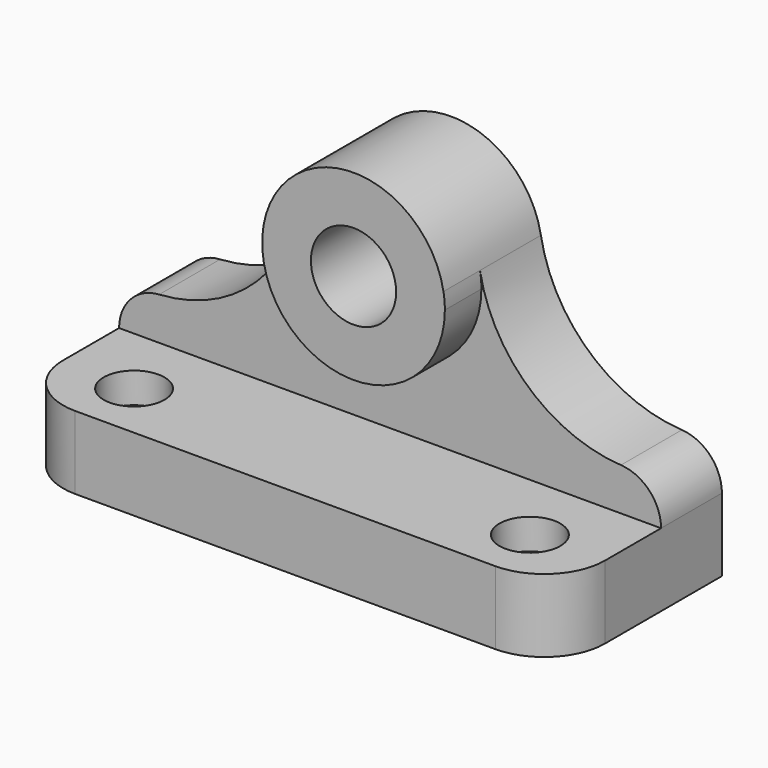
from build123d import *

# Parameters (mm, degrees)
F0_R           = 14
F0_W           = 178
F0_H           = 24
F1_DEPTH       = 25
F2_DEPTH       = 40
F3_DEPTH       = 68
F4_R           = 20
F6_D           = 10
F6_CBORE_D     = 20
F6_CBORE_DEPTH = 10


with BuildPart() as f1:
    # F0 (on Front) → F1 (new body)
    with BuildSketch(Plane.XZ):
        with BuildLine():
            ThreePointArc((-29.54449, 5.207985), (-2.613934, -29.885906), (30, 0))
            ThreePointArc((30, 0), (29.885906, 2.613934), (29.54449, 5.207985))
            ThreePointArc((29.54449, 5.207985), (0, 30), (-29.54449, 5.207985))
        make_face()
        Circle(F0_R, mode=Mode.SUBTRACT)
        with BuildLine():
            ThreePointArc((29.54449, 5.207985), (29.885906, 2.613934), (30, 0))
            ThreePointArc((30, 0), (-2.613934, -29.885906), (-29.54449, 5.207985))
            ThreePointArc((-29.54449, 5.207985), (-45.525876, -23.445808), (-75.828036, -36.024509))
            ThreePointArc((-75.828036, -36.024509), (-85.188045, -40.397722), (-89, -50))
            Line((-89, -50), (89, -50))
            ThreePointArc((89, -50), (85.188045, -40.397722), (75.828036, -36.024509))
            ThreePointArc((75.828036, -36.024509), (45.525876, -23.445808), (29.54449, 5.207985))
        make_face()
        with Locations((0, -62)):
            Rectangle(F0_W, F0_H)
    extrude(amount=F1_DEPTH)

    # F0 (on Front) → F2 (join)
    with BuildSketch(Plane.XZ):
        with BuildLine():
            ThreePointArc((-29.54449, 5.207985), (-2.613934, -29.885906), (30, 0))
            ThreePointArc((30, 0), (29.885906, 2.613934), (29.54449, 5.207985))
            ThreePointArc((29.54449, 5.207985), (0, 30), (-29.54449, 5.207985))
        make_face()
        Circle(F0_R, mode=Mode.SUBTRACT)
    extrude(amount=F2_DEPTH)

    # F0 (on Front) → F3 (join)
    with BuildSketch(Plane.XZ):
        with Locations((0, -62)):
            Rectangle(F0_W, F0_H)
    extrude(amount=F3_DEPTH)

    # F4
    f4_edges = [f1.edges().sort_by_distance(p)[0] for p in [
        (-89, -68, -62),
        (89, -68, -62),
    ]]
    fillet(f4_edges, radius=F4_R)

    # F6 (through all)
    with Locations(Plane.XY.offset(-50)):
        with Locations((-65, -48.848685), (65, -48.848685)):
            CounterBoreHole(F6_D / 2, F6_CBORE_D / 2, F6_CBORE_DEPTH)


solid = f1.part
